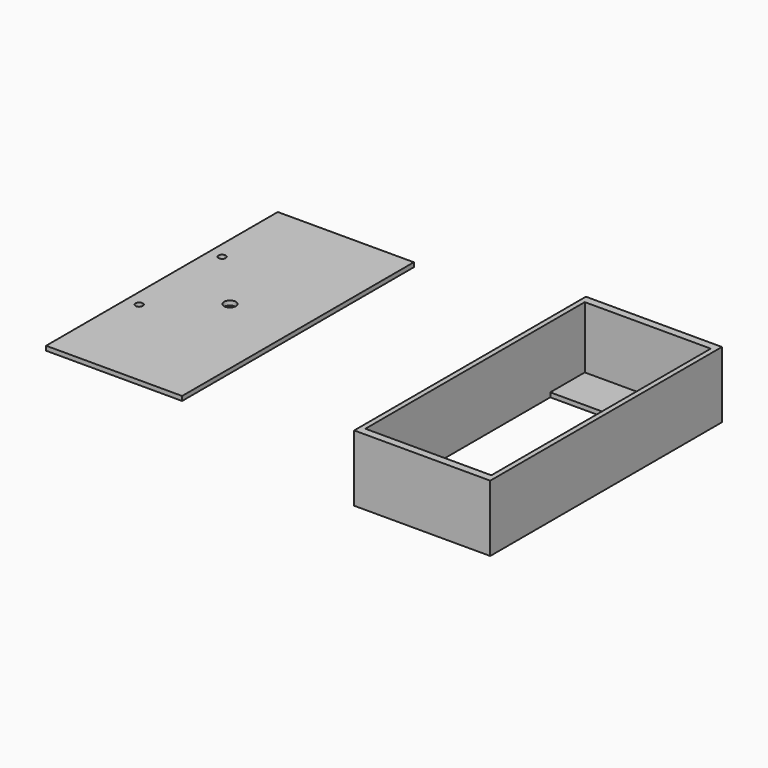
from build123d import *

# Parameters (mm, degrees)
F0_W     = 61.5360587835
F0_H     = 131.0026943684
F0_W_2   = 56.9904185832
F0_H_2   = 124.0508854389
F1_DEPTH = 30
F2_DEPTH = 2
F3_W     = 56.9904185832
F3_H     = 85.0419774652
F4_DEPTH = 25
F5_W     = 61.5360587835
F5_H     = 131.0026943684
F5_W_2   = 56.9904185832
F5_H_2   = 124.0508854389
F6_DEPTH = 2
F8_DEPTH = 25


with BuildPart() as f1:
    # F0 (on Top) → F1 (new body)
    with BuildSketch(Plane.XY):
        Rectangle(F0_W, F0_H)
        Rectangle(F0_W_2, F0_H_2, mode=Mode.SUBTRACT)
    extrude(amount=F1_DEPTH)

    # F0 (on Top) → F2 (join)
    with BuildSketch(Plane.XY):
        Rectangle(F0_W_2, F0_H_2)
    extrude(amount=F2_DEPTH)

    # F3 (on face) → F4 (cut)
    with BuildSketch(Plane.XY.offset(2)):
        Rectangle(F3_W, F3_H)
    extrude(amount=-F4_DEPTH, mode=Mode.SUBTRACT)


with BuildPart() as f6:
    # F5 (on Top) → F6 (new body)
    with BuildSketch(Plane.XY):
        with Locations((-159.0554714203, 24.6067997068)):
            Rectangle(F5_W, F5_H)
        with Locations((-159.0554714203, 24.6067997068)):
            Rectangle(F5_W_2, F5_H_2, mode=Mode.SUBTRACT)
        with Locations((-159.0554714203, 24.6067997068)):
            Rectangle(F5_W_2, F5_H_2)
    extrude(amount=F6_DEPTH)

    # F7 (on face) → F8 (cut)
    with BuildSketch(Plane.XY.offset(2)):
        with BuildLine():
            Line((-183.773547411, 49.4459015969), (-183.773547411, 52.7193801757))
            ThreePointArc((-183.773547411, 52.7193801757), (-185.4102867004, 51.0826408863), (-183.773547411, 49.4459015969))
        make_face()
        with BuildLine():
            ThreePointArc((-182.1368081215, 51.0826408863), (-182.6161979604, 52.2399903369), (-183.773547411, 52.7193801757))
            Line((-183.773547411, 52.7193801757), (-183.773547411, 49.4459015969))
            ThreePointArc((-183.773547411, 49.4459015969), (-182.6161979604, 49.9252914357), (-182.1368081215, 51.0826408863))
        make_face()
        with BuildLine():
            ThreePointArc((-156.3492098156, 24.6067997068), (-156.770993957, 26.0576665487), (-157.904872128, 27.0562839671))
            Line((-157.904872128, 27.0562839671), (-160.2060707126, 22.1573154465))
            ThreePointArc((-160.2060707126, 22.1573154465), (-157.6046045784, 22.3223222436), (-156.3492098156, 24.6067997068))
        make_face()
        with BuildLine():
            Line((-160.2060707126, 22.1573154465), (-157.904872128, 27.0562839671))
            ThreePointArc((-157.904872128, 27.0562839671), (-161.5049556806, 25.7573989991), (-160.2060707126, 22.1573154465))
        make_face()
        with BuildLine():
            ThreePointArc((-182.1368081215, 4.2002452537), (-182.6161979604, 5.3575947043), (-183.773547411, 5.8369845432))
            Line((-183.773547411, 5.8369845432), (-183.773547411, 2.5635059643))
            ThreePointArc((-183.773547411, 2.5635059643), (-182.6161979604, 3.0428958032), (-182.1368081215, 4.2002452537))
        make_face()
        with BuildLine():
            Line((-183.773547411, 2.5635059643), (-183.773547411, 5.8369845432))
            ThreePointArc((-183.773547411, 5.8369845432), (-185.4102867004, 4.2002452537), (-183.773547411, 2.5635059643))
        make_face()
    extrude(amount=-F8_DEPTH, mode=Mode.SUBTRACT)


solid = Compound([f1.part, f6.part])
